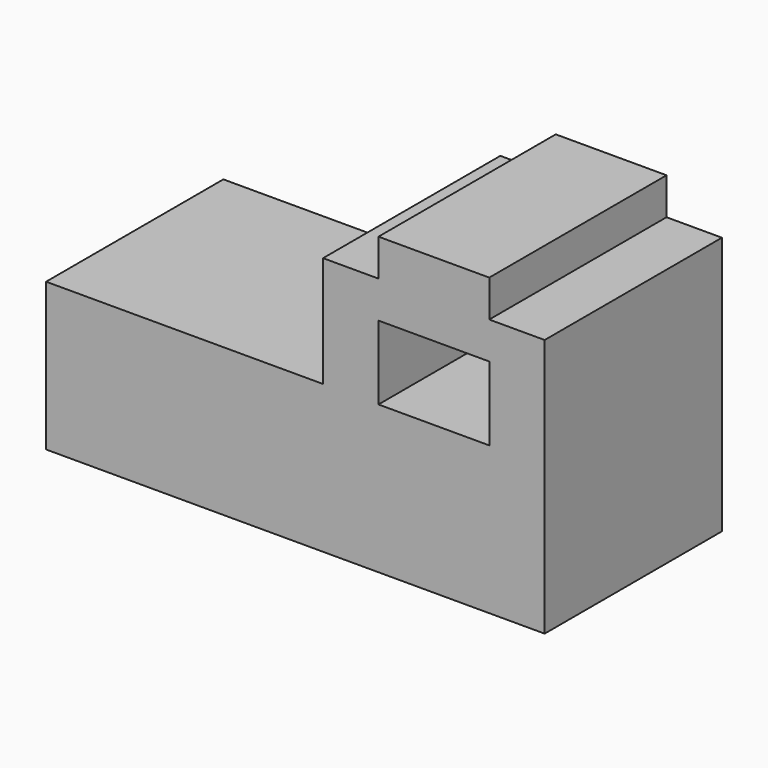
from build123d import *

# Parameters (mm, degrees)
F0_W     = 24
F0_H     = 16
F1_DEPTH = 24


with BuildPart() as f1:
    # F0 (on Front) → F1 (new body, symmetric)
    with BuildSketch(Plane.XZ):
        Polygon((19.676238, 0), (-40.323762, 0), (-40.323762, -32), (67.676238, -32), (67.676238, 16), (67.676238, 24), (55.676238, 24), (55.676238, 32), (31.676238, 32), (31.676238, 24), (19.676238, 24), align=None)
        with Locations((43.676238, 8)):
            Rectangle(F0_W, F0_H, mode=Mode.SUBTRACT)
    extrude(amount=F1_DEPTH, both=True)


solid = f1.part
